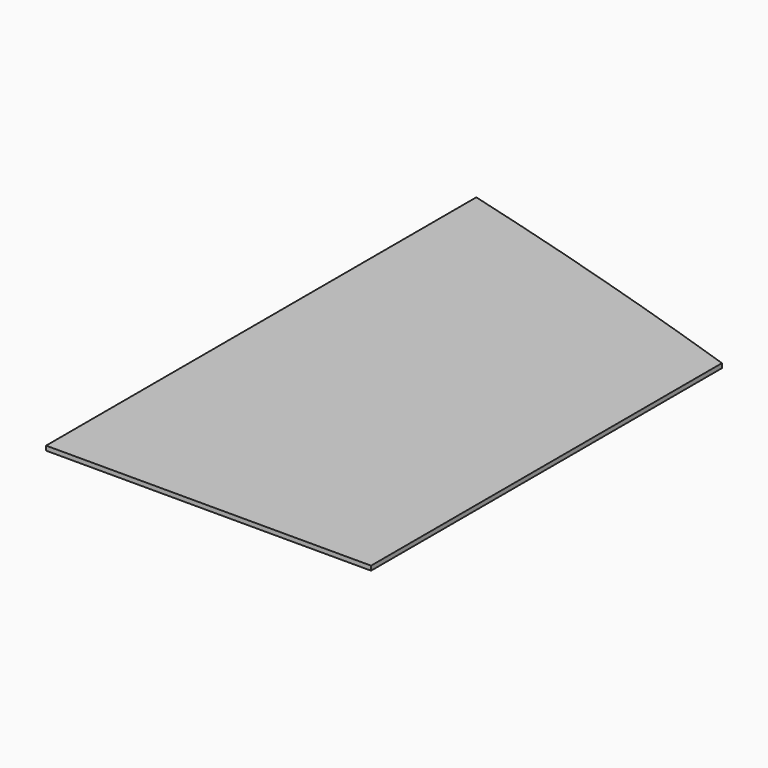
from build123d import *

# Parameters (mm, degrees)
F1_DEPTH = 25.4


with BuildPart() as f1:
    # F0 (on Top) → F1 (new body)
    with BuildSketch(Plane.XY):
        with BuildLine():
            Line((-927.205619, 2108.908936), (-927.205619, -959.411064))
            Line((-927.205619, -959.411064), (-0.105619, -959.411064))
            Line((-0.105619, -959.411064), (-0.105619, 1841.446936))
            ThreePointArc((-0.105619, 1841.446936), (-462.638171, 1978.704703), (-927.205619, 2108.908936))
        make_face()
        with BuildLine():
            Line((-0.105619, 1841.446936), (-0.105619, -959.411064))
            Line((-0.105619, -959.411064), (926.994381, -959.411064))
            Line((926.994381, -959.411064), (926.994381, 1542.996936))
            ThreePointArc((926.994381, 1542.996936), (464.590354, 1695.781765), (-0.105619, 1841.446936))
        make_face()
    extrude(amount=F1_DEPTH)


solid = f1.part
